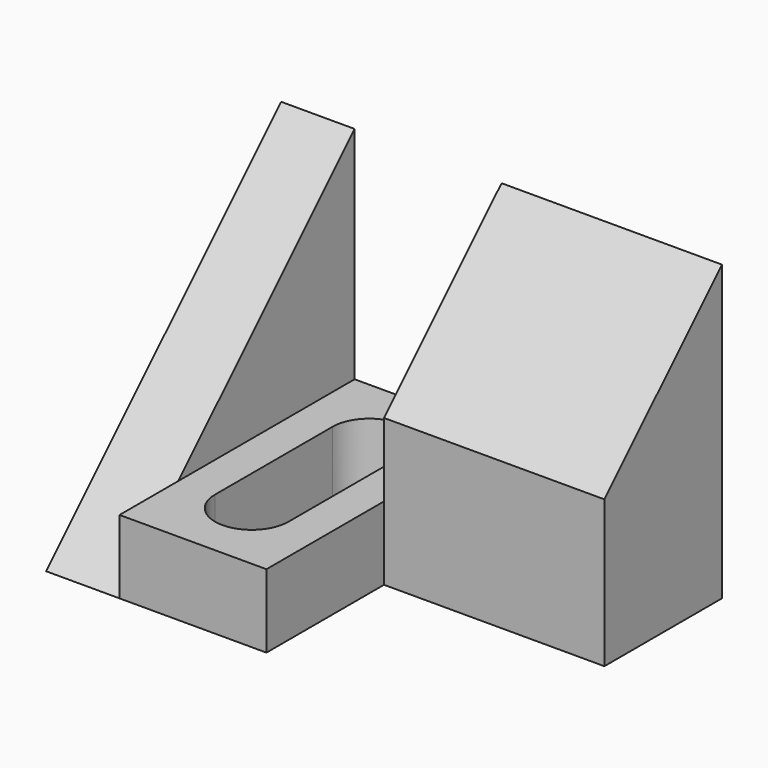
from build123d import *

# Parameters (mm, degrees)
F0_W     = 12.7
F0_H     = 6.35
F1_DEPTH = 6.35
F2_W     = 25.4
F2_H     = 6.35
F3_DEPTH = 12.7
F5_DEPTH = 19.05
F7_DEPTH = 6.351


with BuildPart() as f1:
    # F0 (on Right) → F1 (new body)
    with BuildSketch(Plane.YZ):
        Polygon((25.4, 25.4), (12.7, 12.7), (12.7, 6.35), (25.4, 6.35), align=None)
        with Locations((19.05, 3.175)):
            Rectangle(F0_W, F0_H)
        Polygon((12.7, 6.35), (6.35, 6.35), (0, 0), (12.7, 0), align=None)
        Polygon((12.7, 6.35), (12.7, 12.7), (6.35, 6.35), align=None)
    extrude(amount=F1_DEPTH)

    # F2 (on face) → F3 (join)
    with BuildSketch(Plane.YZ.offset(6.35)):
        with Locations((12.7, 3.175)):
            Rectangle(F2_W, F2_H)
    extrude(amount=F3_DEPTH)

    # F4 (on face) → F5 (join)
    with BuildSketch(Plane.YZ.offset(19.05)):
        Polygon((25.4, 25.4), (12.7, 12.7), (12.7, 0), (25.4, 0), align=None)
    extrude(amount=F5_DEPTH)

    # F6 (on face) → F7 (cut, through all)
    with BuildSketch(Plane.XY.offset(6.35)):
        with BuildLine():
            ThreePointArc((15.875, 19.05), (12.7, 22.225), (9.525, 19.05))
            Line((9.525, 19.05), (9.525, 6.35))
            ThreePointArc((9.525, 6.35), (12.7, 3.175), (15.875, 6.35))
            Line((15.875, 6.35), (15.875, 19.05))
        make_face()
    extrude(amount=-F7_DEPTH, mode=Mode.SUBTRACT)


solid = f1.part
